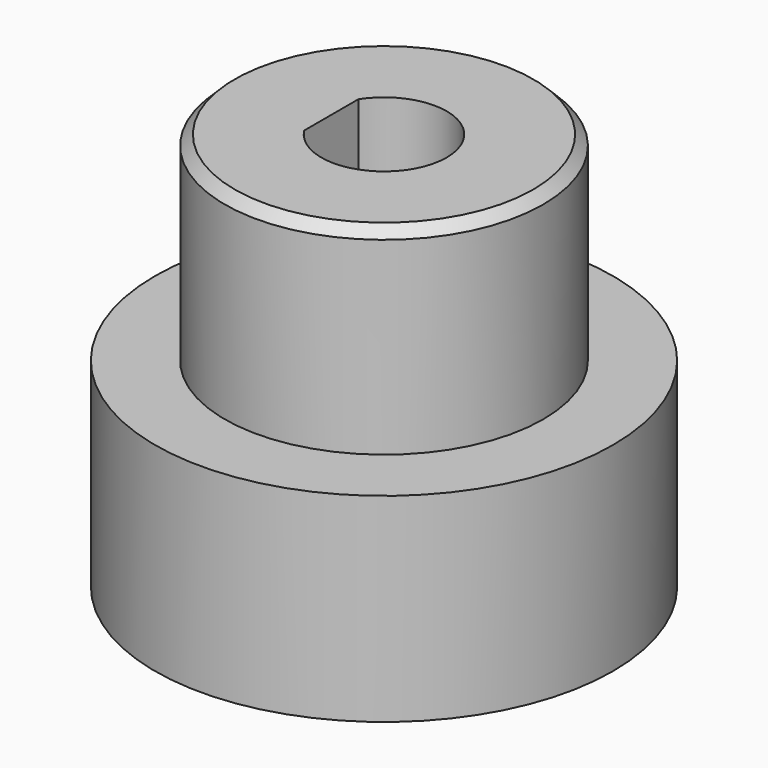
from build123d import *

# Parameters (mm, degrees)
SKETCH002_R   = 8
PAD_DEPTH     = 20
SKETCH003_R   = 11.5
SKETCH003_R_2 = 8
PAD001_DEPTH  = 10
SKETCH_R      = 1.25
POCKET_DEPTH  = 11.501
CHAMFER_SIZE  = 0.5


with BuildPart() as part:
    # Sketch002 → Pad (new body)
    with BuildSketch(Plane.XY):
        Circle(SKETCH002_R)
        with BuildLine():
            ThreePointArc((-2.65, -1.702939), (3.15, 0), (-2.65, 1.702939))
            Line((-2.65, 1.702939), (-2.65, -1.702939))
        make_face(mode=Mode.SUBTRACT)
    extrude(amount=PAD_DEPTH)

    # Sketch003 (on Face4 of Pad) → Pad001 (join)
    with BuildSketch(Plane(origin=(0, 0, 0), x_dir=(1, 0, 0), z_dir=(0, 0, -1))):
        Circle(SKETCH003_R)
        Circle(SKETCH003_R_2, mode=Mode.SUBTRACT)
    extrude(amount=-PAD001_DEPTH)

    # Sketch → Pocket (cut, through all)
    with BuildSketch(Plane.YZ):
        with Locations((0, 8)):
            Circle(SKETCH_R)
        with Locations((0, 2)):
            Circle(SKETCH_R)
    extrude(amount=-POCKET_DEPTH, mode=Mode.SUBTRACT)

    # Chamfer
    chamfer_edges = [part.edges().sort_by_distance(p)[0] for p in [
        (-8, 0, 20),
    ]]
    chamfer(chamfer_edges, length=CHAMFER_SIZE)


solid = part.part
